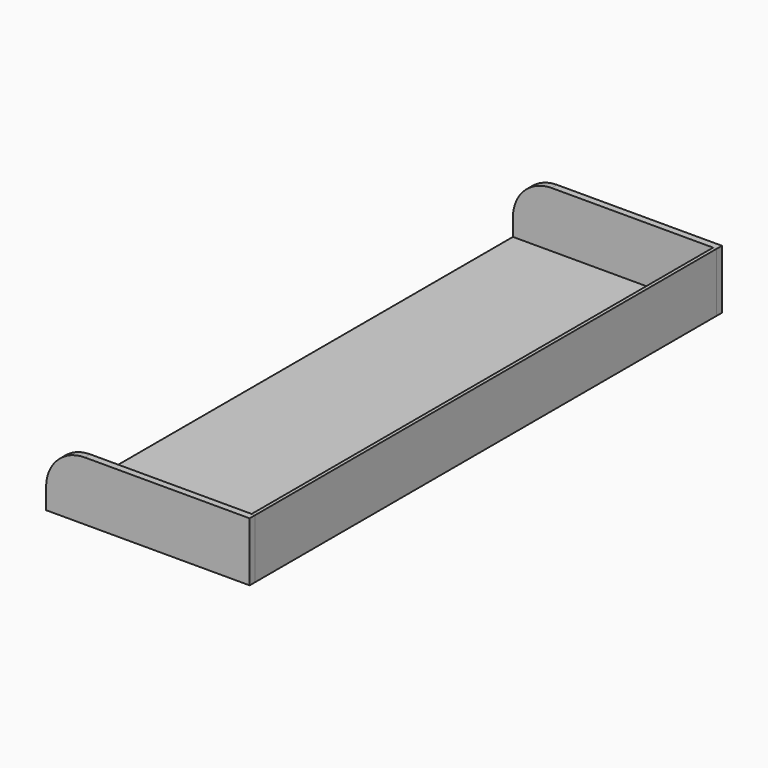
from build123d import *

# Parameters (mm, degrees)
F1_DEPTH = 10
F3_DEPTH = 850


with BuildPart() as f1:
    # F0 (on Front) → F1 (new body)
    with BuildSketch(Plane.XZ):
        with BuildLine():
            Line((0, 57), (-243, 57))
            ThreePointArc((-243, 57), (-283.305087, 40.305087), (-300, 0))
            Line((-300, 0), (-300, -30))
            Line((-300, -30), (0, -30))
            Line((0, -30), (0, 57))
        make_face()
    extrude(amount=F1_DEPTH)


with BuildPart() as f3:
    # F2 (on face) → F3 (new body)
    with BuildSketch(Plane.XZ.offset(10)):
        Polygon((-300, -25), (-300, -30), (0, -30), (0, 57), (-5, 57), (-5, -25), align=None)
    extrude(amount=F3_DEPTH)


with BuildPart() as f4_1:
    # F4: copy of F1
    add(f1.part.moved(Location((0, -860, 0))))


solid = Compound([f1.part, f3.part, f4_1.part])
